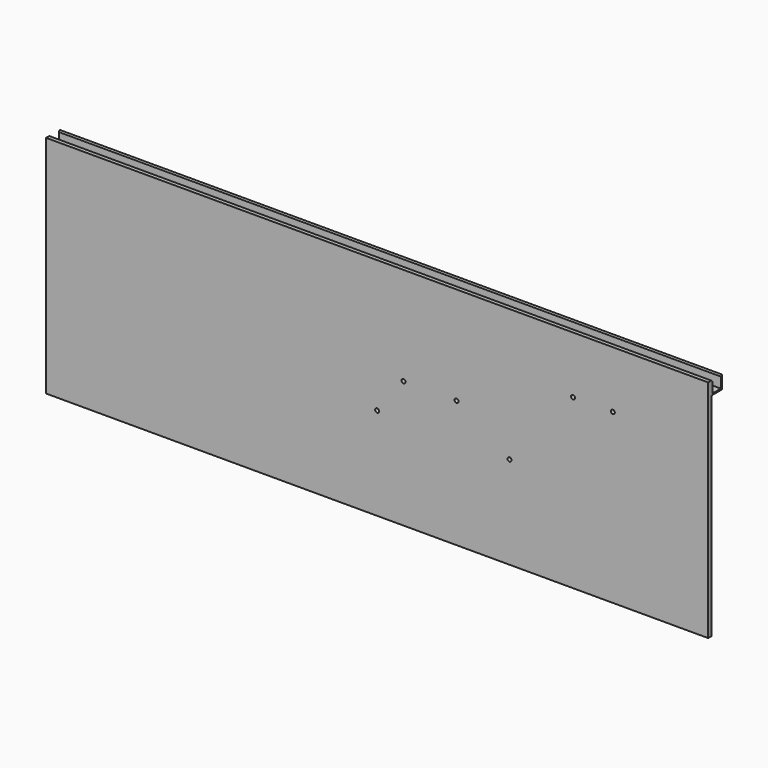
from build123d import *

# Parameters (mm, degrees)
F0_W     = 500
F0_H     = 170
F1_DEPTH = 3
F3_DEPTH = 500
F5_D     = 3
F5_DEPTH = 25


with BuildPart() as f1:
    # F0 (on Front) → F1 (new body)
    with BuildSketch(Plane.XZ):
        with Locations((61.018479, 12.994566)):
            Rectangle(F0_W, F0_H)
    extrude(amount=F1_DEPTH)

    # F2 (on face) → F3 (join, through all)
    with BuildSketch(Plane.YZ.offset(311.018479)):
        Polygon((0, 97.994566), (0, 87.994566), (10, 87.994566), (10, 97.994566), (9, 96.994566), (9, 88.994566), (1, 88.994566), (1, 96.994566), align=None)
    extrude(amount=-F3_DEPTH)

    # F5
    with Locations(Plane.XZ.offset(3)):
        with Locations((61.018479, -2.005434), (81.018479, 23.994566), (121.018479, 23.994566), (161.018479, -2.005434), (209.018479, 54.994566), (239.018479, 54.994566)):
            Hole(F5_D / 2, depth=F5_DEPTH)


solid = f1.part
